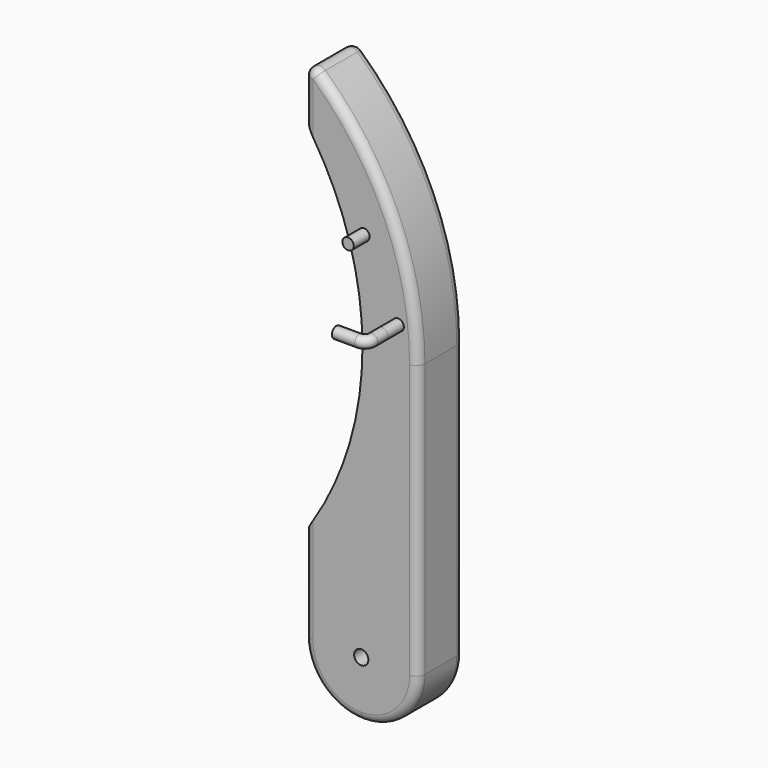
from build123d import *

# Parameters (mm, degrees)
F1_DEPTH  = 25.4
F2_R      = 3.175
F3_DEPTH  = 6.35
F4_R      = 3.81
F5_R      = 2.54
F6_DEPTH  = 8.89
F8_R      = 2.54
F11_R     = 6.35
F12_DEPTH = 25.4


with BuildPart() as f1:
    # F0 (on Front) → F1 (new body)
    with BuildSketch(Plane.XZ):
        with BuildLine():
            Line((0, 66.4387534539), (0, 41.0387534539))
            ThreePointArc((0, 41.0387534539), (37.4494820277, 88.5304728284), (50.8, 147.5193767269))
            ThreePointArc((50.8, 147.5193767269), (37.4494820277, 206.5082806255), (0, 254))
            Line((0, 254), (0, 228.6))
            ThreePointArc((0, 228.6), (25.9369896247, 147.5193767269), (0, 66.4387534539))
        make_face()
        with BuildLine():
            ThreePointArc((0, 25.4), (7.4394877579, 7.4394877579), (25.4, 0))
            ThreePointArc((25.4, 0), (43.3605122421, 7.4394877579), (50.8, 25.4))
            Line((50.8, 25.4), (50.8, 147.5193767269))
            ThreePointArc((50.8, 147.5193767269), (37.4494820277, 88.5304728284), (0, 41.0387534539))
            Line((0, 41.0387534539), (0, 25.4))
        make_face()
    extrude(amount=F1_DEPTH)

    # F2 (on face) → F3 (cut)
    with BuildSketch(Plane.XZ.offset(25.4)):
        with Locations((25.4, 25.4)):
            Circle(F2_R)
    extrude(amount=-F3_DEPTH, mode=Mode.SUBTRACT)

    # F4
    f4_edges = [f1.edges().sort_by_distance(p)[0] for p in [
        (0, -12.7, 254),
        (0, -12.7, 228.6),
        (0, 0, 241.3),
        (0, -25.4, 241.3),
        (0, -12.7, 66.438753),
        (0, -12.7, 25.4),
        (0, 0, 45.919377),
        (0, -25.4, 45.919377),
    ]]
    fillet(f4_edges, radius=F4_R)

    # F5 (on face) → F6 (join)
    with BuildSketch(Plane.XZ.offset(25.4)):
        with Locations((26.6260020435, 191.9900625944)):
            Circle(F5_R)
        with Locations((41.8660020435, 161.5079194307)):
            Circle(F5_R)
    extrude(amount=F6_DEPTH)

    # F10: sweep along a path in F9
    with BuildLine(Plane.XY.offset(161.507932)) as f10_path:
        Line((41.8660020435, -34.29), (41.8660020435, -40.0177))
        ThreePointArc((41.8660020435, -40.0177), (40.9397858176, -42.2537837741), (38.7037020435, -43.18))
        Line((38.7037020435, -43.18), (28.5437020435, -43.18))
    # F8 (on face) → F10 (sweep)
    with BuildSketch(Plane.XZ.offset(34.29)):
        with Locations((41.8660020435, 161.5079194307)):
            Circle(F8_R)
    sweep(path=f10_path.line)

    # F11 (on face) → F12 (cut)
    with BuildSketch(Plane.XZ.offset(19.05)):
        with Locations((25.4, 25.4)):
            Circle(F11_R)
    extrude(amount=-F12_DEPTH, mode=Mode.SUBTRACT)


solid = f1.part
